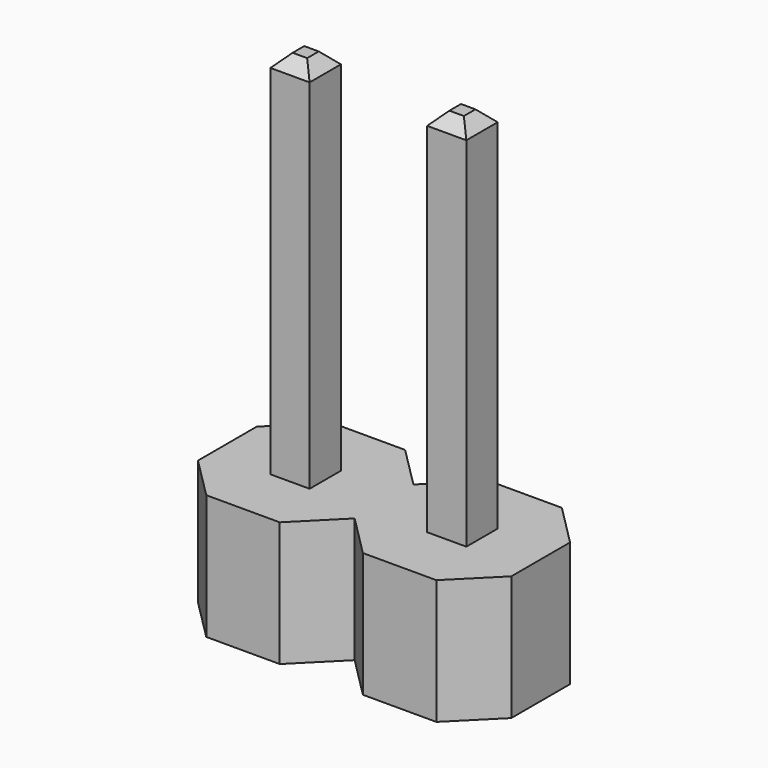
from build123d import *

# Parameters (mm, degrees)
F1_DEPTH = 2.023
F2_W     = 0.635
F2_H     = 0.635
F3_DEPTH = 6
F4_SIZE  = 0.2


with BuildPart() as f1:
    # F0 (on Top) → F1 (new body)
    with BuildSketch(Plane.XY):
        Polygon((-0.675, 1.2705), (-1.866, 1.2705), (-2.54, 0.594501), (-2.54, -0.596499), (-1.865, -1.271499), (-0.674, -1.271499), (0, -0.5955), (0, 0.5955), align=None)
        Polygon((0.675, 1.2705), (0, 0.5955), (0, -0.5955), (0.674, -1.271499), (1.865, -1.271499), (2.54, -0.596499), (2.54, 0.594501), (1.866, 1.2705), align=None)
    extrude(amount=F1_DEPTH)


with BuildPart() as f3:
    # F2 (on face) → F3 (new body)
    with BuildSketch(Plane.XY.offset(2.023)):
        with Locations((-1.2705, 0)):
            Rectangle(F2_W, F2_H)
        with Locations((1.2705, 0)):
            Rectangle(F2_W, F2_H)
    extrude(amount=F3_DEPTH)

    # F4
    f4_edges = [f3.edges().sort_by_distance(p)[0] for p in [
        (-1.2705, 0.3175, 8.023),
        (-1.588, 0, 8.023),
        (-1.2705, -0.3175, 8.023),
        (-0.953, 0, 8.023),
        (1.2705, 0.3175, 8.023),
        (0.953, 0, 8.023),
        (1.2705, -0.3175, 8.023),
        (1.588, 0, 8.023),
    ]]
    chamfer(f4_edges, length=F4_SIZE)


solid = Compound([f1.part, f3.part])
